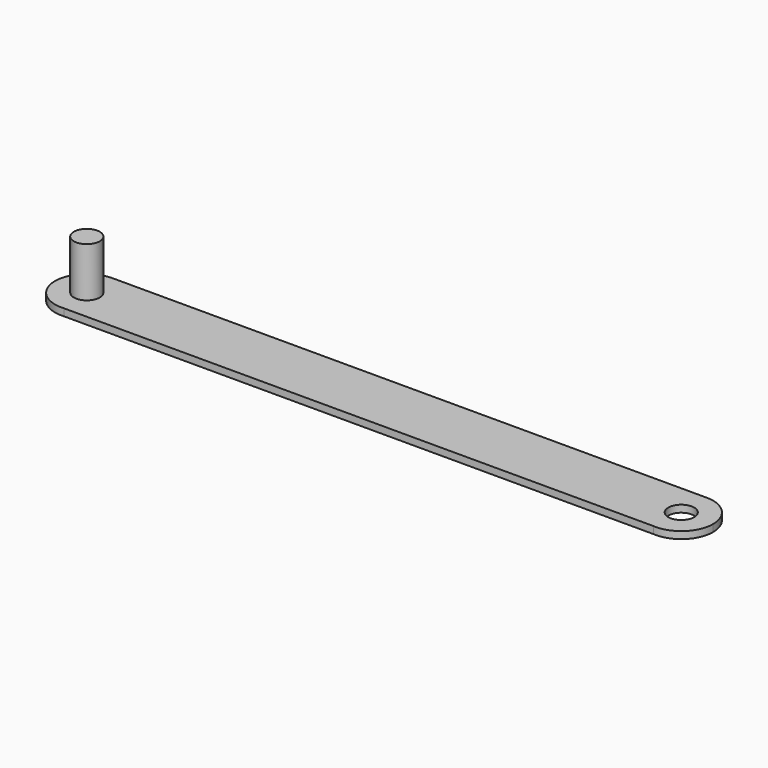
from build123d import *

# Parameters (mm, degrees)
F0_R     = 2.909101
F1_DEPTH = 1.5875
F2_DEPTH = 12.7


with BuildPart() as f1:
    # F0 (on Top) → F1 (new body)
    with BuildSketch(Plane.XY):
        with BuildLine():
            ThreePointArc((-66.141413, -7.112484), (-61.475735, -4.835872), (-59.58739, 0))
            ThreePointArc((-59.58739, 0), (-61.677557, 5.04611), (-66.723667, 7.136277))
            ThreePointArc((-66.723667, 7.136277), (-73.853994, -0.29137), (-66.141413, -7.112484))
        make_face()
        with Locations((-66.723667, 0)):
            Circle(F0_R, mode=Mode.SUBTRACT)
        with BuildLine():
            ThreePointArc((-66.723667, 7.136277), (-61.677557, 5.04611), (-59.58739, 0))
            ThreePointArc((-59.58739, 0), (-61.475735, -4.835872), (-66.141413, -7.112484))
            Line((-66.141413, -7.112484), (66.141413, -7.112484))
            ThreePointArc((66.141413, -7.112484), (59.59334, 0.29137), (66.723667, 7.136277))
            Line((66.723667, 7.136277), (-66.723667, 7.136277))
        make_face()
        with BuildLine():
            ThreePointArc((73.859944, 0), (71.769777, 5.04611), (66.723667, 7.136277))
            ThreePointArc((66.723667, 7.136277), (59.59334, 0.29137), (66.141413, -7.112484))
            ThreePointArc((66.141413, -7.112484), (71.55954, -5.247932), (73.859944, 0))
        make_face()
        with Locations((66.723667, 0)):
            Circle(F0_R, mode=Mode.SUBTRACT)
    extrude(amount=F1_DEPTH)

    # F0 (on Top) → F2 (join)
    with BuildSketch(Plane.XY):
        with Locations((-66.723667, 0)):
            Circle(F0_R)
    extrude(amount=F2_DEPTH)


solid = f1.part
